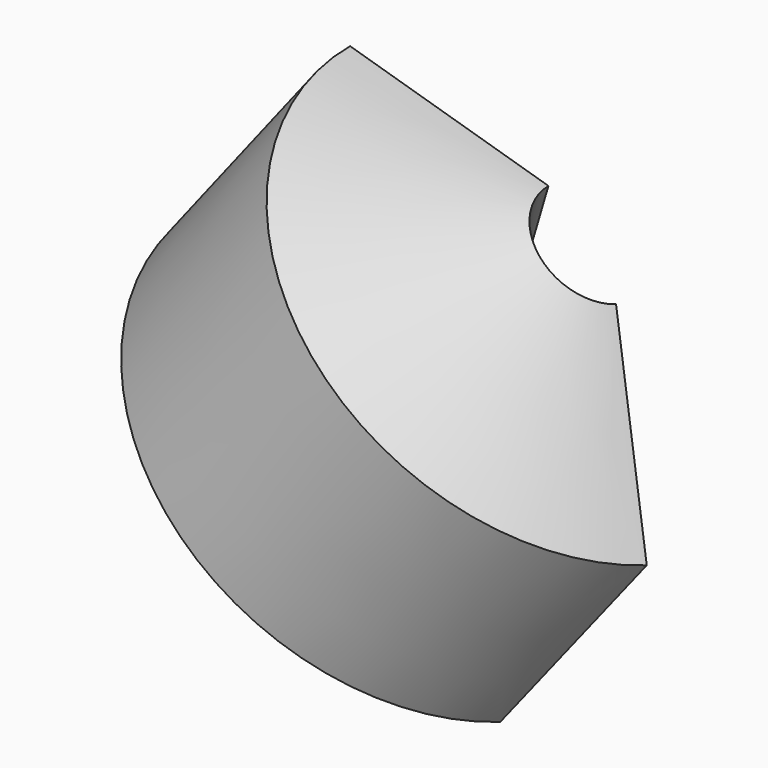
from build123d import *

# Parameters (mm, degrees)
F1_ANGLE = 156.7026942029


with BuildPart() as f1:
    # F0 (on Front) → F1 (revolve)
    with BuildSketch(Plane.XZ):
        Polygon((-9.447529912, -63.328102231), (27.8998017311, -15.7951265574), (41.6282862425, 30.7045206428), (-21.1057709019, 49.2260274434), (-67.1661645174, -9.7427964211), align=None)
    revolve(axis=Axis((9.2261359096, 0, -39.5616143942), (0.6178214866, 0, 0.7863183901)), revolution_arc=F1_ANGLE)


solid = f1.part
